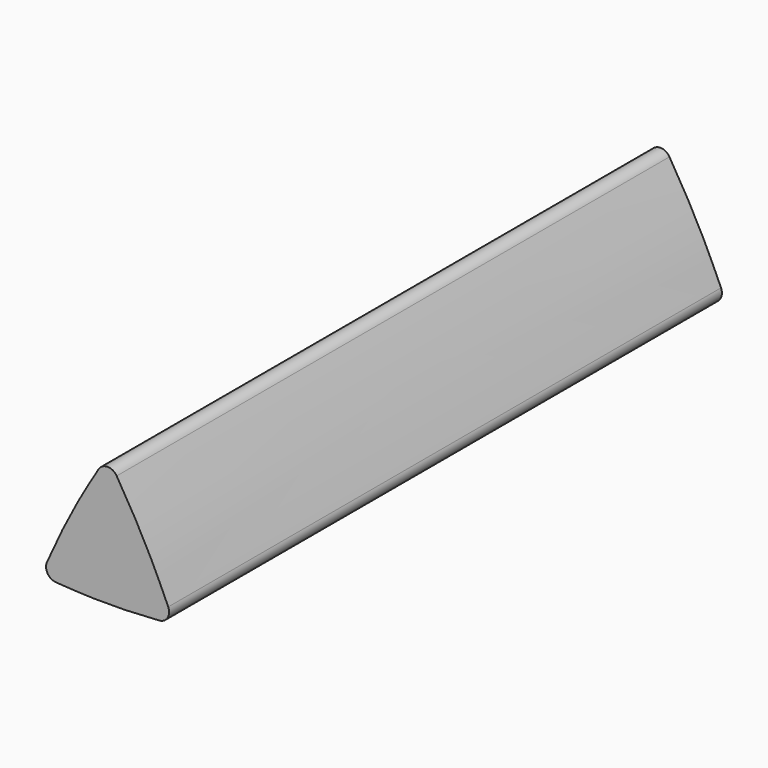
from build123d import *

# Parameters (mm, degrees)
F1_DEPTH = 32.6


with BuildPart() as f1:
    # F0 (on Front) → F1 (new body)
    with BuildSketch(Plane.XZ):
        with BuildLine():
            add(Edge.make_bspline(
                [(0.290014, 0.652725), (0.654464, 1.468686), (1.386119, 3.059577), (2.276955, 4.566897), (2.72267, 5.300609)],
                knots=[0.713428, 0.713428, 0.713428, 0.713428, 3.391626, 5.964573, 5.964573, 5.964573, 5.964573], degree=3))
            ThreePointArc((0.290014, 0.652725), (0.318085, 0.19109), (0.712737, -0.050041))
            add(Edge.make_bspline(
                [(5.587263, -0.050041), (4.774842, -0.1051), (3.15, -0.1949), (1.525158, -0.1051), (0.712737, -0.050041)],
                knots=[0.713545, 0.713545, 0.713545, 0.713545, 3.153569, 5.593594, 5.593594, 5.593594, 5.593594], degree=3))
            ThreePointArc((5.587263, -0.050041), (5.981915, 0.19109), (6.009986, 0.652725))
            add(Edge.make_bspline(
                [(3.57733, 5.300609), (4.023045, 4.566897), (4.913881, 3.059577), (5.645536, 1.468686), (6.009986, 0.652725)],
                knots=[0.818678, 0.818678, 0.818678, 0.818678, 3.391626, 6.069824, 6.069824, 6.069824, 6.069824], degree=3))
            ThreePointArc((3.57733, 5.300609), (3.15, 5.541014), (2.72267, 5.300609))
        make_face()
    extrude(amount=F1_DEPTH)


solid = f1.part
